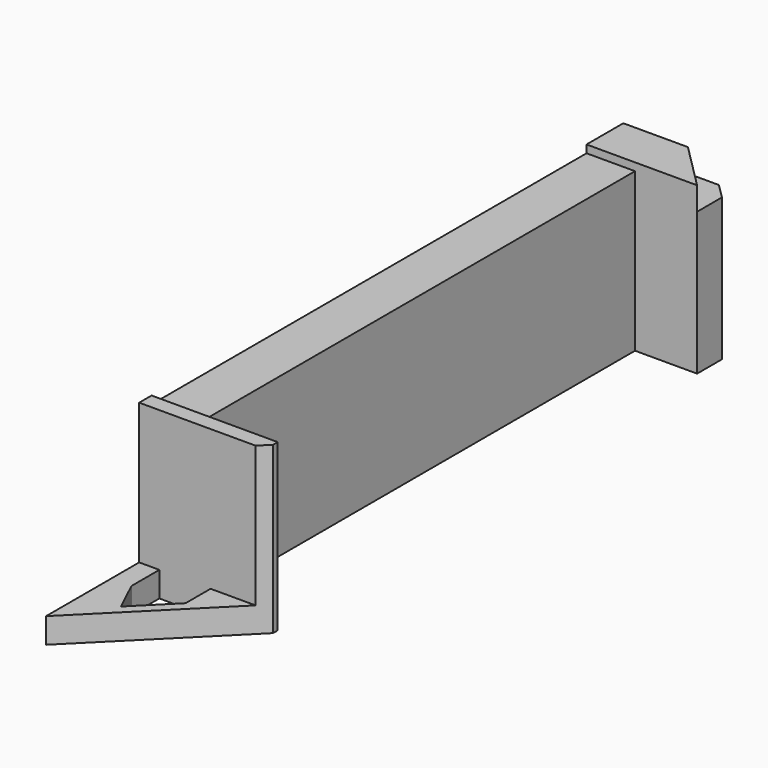
from build123d import *

# Parameters (mm, degrees)
PAD065_DEPTH      = 1.5
PAD065_DEPTH_BACK = 31
POCKET022_DEPTH   = 42.751
POCKET023_DEPTH   = 6
POCKET024_DEPTH   = 6.501


with BuildPart() as part:
    # Sketch105 → Pad065 (new body, two sides)
    with BuildSketch(Plane(origin=(0, 0, 0), x_dir=(0, -1, 0), z_dir=(-1, 0, 0))) as pad065_sk:
        Polygon((-58, 1.6), (-244, 1.6), (-244, 44.35), (-232.15, 44.35), (-232.15, 42.35), (-92, 42.35), (-92, 44.35), (-88, 44.35), (-88, 8.1), (-58, 8.1), align=None)
    extrude(amount=PAD065_DEPTH)
    extrude(pad065_sk.sketch, amount=-PAD065_DEPTH_BACK)

    # Sketch106 (on Face1 of Pad065) → Pocket022 (cut, through all)
    with BuildSketch(Plane.YX.offset(-1.6)):
        Polygon((48.3023801265, -11.1976198735), (92, 32.5), (92, 11), (232.15, 11), (232.15, 27), (240.15, 27), (258.8163982142, 8.3336017858), (258.8163982142, 61.252958), (48.3023801265, 61.252958), align=None)
    extrude(amount=-POCKET022_DEPTH, mode=Mode.SUBTRACT)

    # Sketch107 (on Face17 of Pocket022) → Pocket023 (cut)
    with BuildSketch(Plane(origin=(0, 0, 44.35), x_dir=(0, -1, 0), z_dir=(0, 0, 1))):
        Polygon((-249.5028966484, 34.5330350464), (-249.5028966484, 9.6471033517), (-224.6169649536, 34.5330350464), align=None)
    extrude(amount=-POCKET023_DEPTH, mode=Mode.SUBTRACT)

    # Sketch108 (on Face13 of Pocket023) → Pocket024 (cut, through all)
    with BuildSketch(Plane(origin=(0, 0, 8.1), x_dir=(0, -1, 0), z_dir=(0, 0, 1))):
        Polygon((-88, 16.9), (-88, 3.7), (-79, 3.7), (-70.6961965864, 7.6606626805), (-79.9355339059, 16.9), align=None)
    extrude(amount=-POCKET024_DEPTH, mode=Mode.SUBTRACT)


solid = part.part
